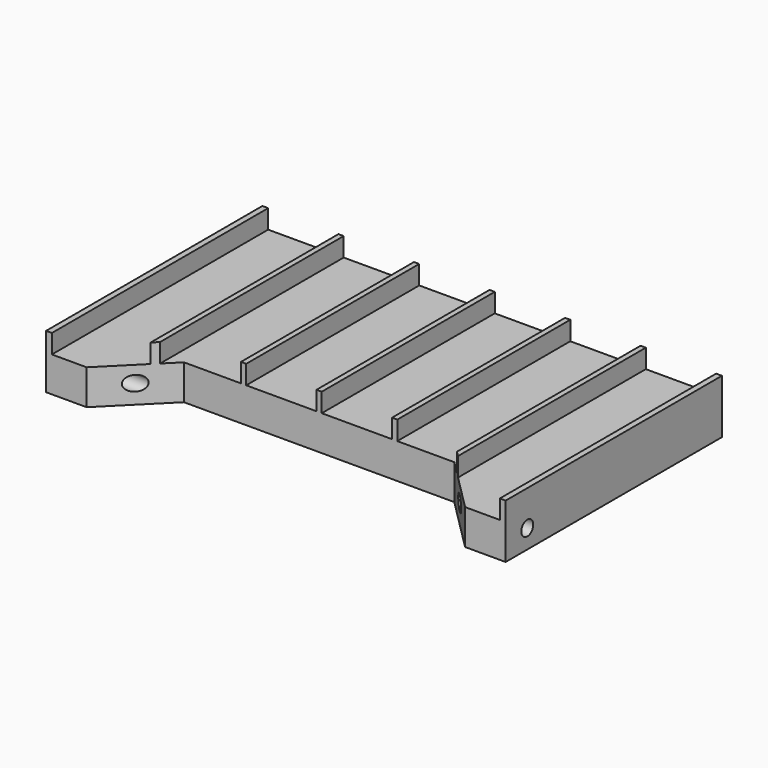
from build123d import *

# Parameters (mm, degrees)
F1_DEPTH = 20
F2_W     = 26
F2_H     = 113.192833
F3_DEPTH = 7
F4_R     = 2.75
F5_DEPTH = 170


with BuildPart() as f1:
    # F0 (on Top) → F1 (new body)
    with BuildSketch(Plane.XY):
        Polygon((-34.973299, 75.256209), (-34.973299, -24.743791), (-19.973299, -24.743791), (0.026701, -4.743791), (100.026701, -4.743791), (120.026701, -24.743791), (135.026701, -24.743791), (135.026701, 75.256209), align=None)
    extrude(amount=F1_DEPTH)

    # F2 (on face) → F3 (cut)
    with BuildSketch(Plane.XY.offset(20)):
        with Locations((-19.823299, 26.061079)):
            Rectangle(F2_W, F2_H)
        with Locations((8.116701, 26.061079)):
            Rectangle(F2_W, F2_H)
        with Locations((36.056701, 26.061079)):
            Rectangle(F2_W, F2_H)
        with Locations((63.996701, 26.061079)):
            Rectangle(F2_W, F2_H)
        with Locations((91.936701, 26.061079)):
            Rectangle(F2_W, F2_H)
        with Locations((119.876701, 26.061079)):
            Rectangle(F2_W, F2_H)
    extrude(amount=-F3_DEPTH, mode=Mode.SUBTRACT)

    # F4 (on face) → F5 (cut, through all)
    with BuildSketch(Plane(origin=(-34.973299, 0, 0), x_dir=(0, -1, 0), z_dir=(-1, 0, 0))):
        with Locations((14.743791, 7)):
            Circle(F4_R)
    extrude(amount=-F5_DEPTH, mode=Mode.SUBTRACT)


solid = f1.part
